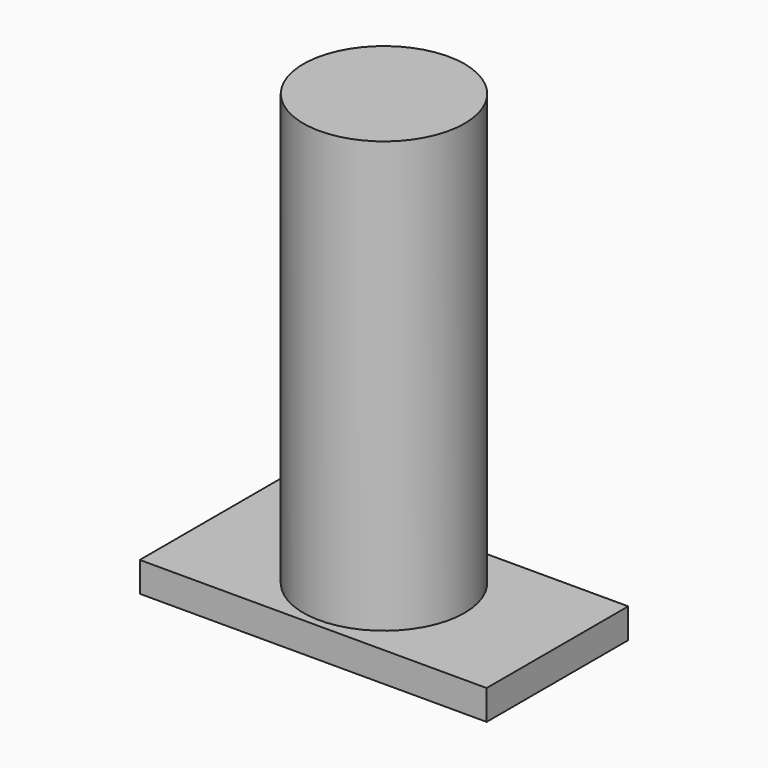
from build123d import *

# Parameters (mm, degrees)
F0_R     = 28.526815
F1_DEPTH = 152.4
F2_W     = 122.707962
F2_H     = 62.613734
F3_DEPTH = 10.551801


with BuildPart() as f1:
    # F0 (on Top) → F1 (new body)
    with BuildSketch(Plane.XY):
        Circle(F0_R)
        Circle(F0_R)
    extrude(amount=F1_DEPTH)

    # F2 (on Top) → F3 (join)
    with BuildSketch(Plane.XY):
        Rectangle(F2_W, F2_H)
    extrude(amount=-F3_DEPTH)


solid = f1.part
